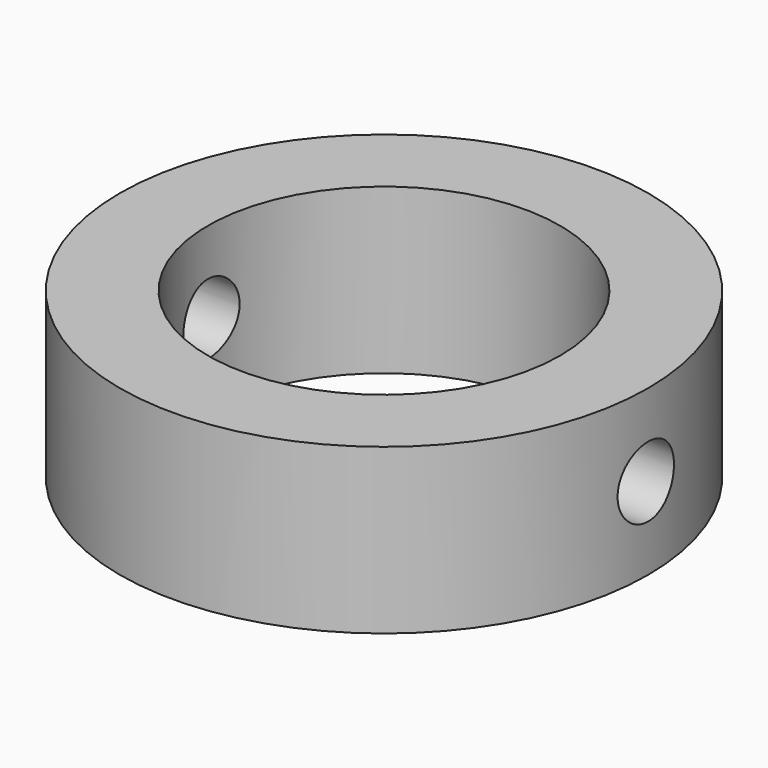
from build123d import *

# Parameters (mm, degrees)
SKETCH_R     = 22.5
SKETCH_R_2   = 15
PAD_DEPTH    = 14
SKETCH001_R  = 3
POCKET_DEPTH = 45.001


with BuildPart() as part:
    # Sketch → Pad (new body)
    with BuildSketch(Plane.XY):
        Circle(SKETCH_R)
        Circle(SKETCH_R_2, mode=Mode.SUBTRACT)
    extrude(amount=PAD_DEPTH)

    # Sketch001 → Pocket (cut, through all)
    with BuildSketch(Plane(origin=(22.5, 0, 7), x_dir=(0, 1, 0), z_dir=(1, 0, 0))):
        Circle(SKETCH001_R)
    extrude(amount=-POCKET_DEPTH, mode=Mode.SUBTRACT)


solid = part.part
